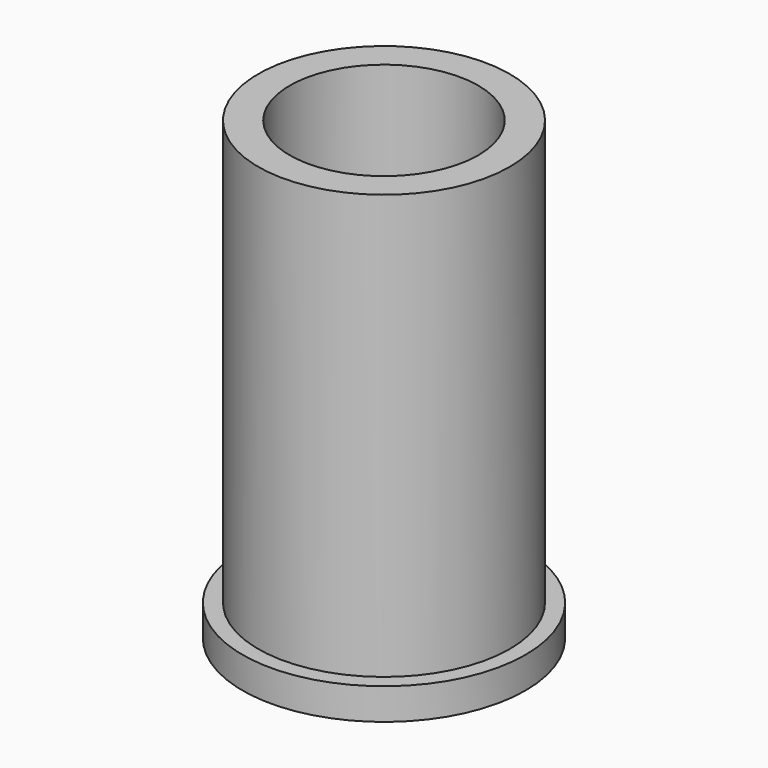
from build123d import *

# Parameters (mm, degrees)
CYLINDER005_R     = 6
CYLINDER005_DEPTH = 50
CYLINDER004_R     = 9
CYLINDER004_DEPTH = 2
CYLINDER003_R     = 8
CYLINDER003_DEPTH = 27


with BuildPart() as cylinder005:
    # Cylinder005 → Cylinder005 (new body)
    with BuildSketch(Plane.XY.offset(-15)):
        Circle(CYLINDER005_R)
    extrude(amount=CYLINDER005_DEPTH)


with BuildPart() as cylinder004:
    # Cylinder004 → Cylinder004 (new body)
    with BuildSketch(Plane.XY.offset(-2)):
        Circle(CYLINDER004_R)
    extrude(amount=CYLINDER004_DEPTH)


with BuildPart() as cut007:
    # Cylinder003 → Cylinder003 (new body)
    with BuildSketch(Plane.XY):
        Circle(CYLINDER003_R)
    extrude(amount=CYLINDER003_DEPTH)

    # Fusion007: union Cylinder004
    add(cylinder004.part)

    # Cut007: cut Cylinder005
    add(cylinder005.part, mode=Mode.SUBTRACT)


solid = cut007.part
